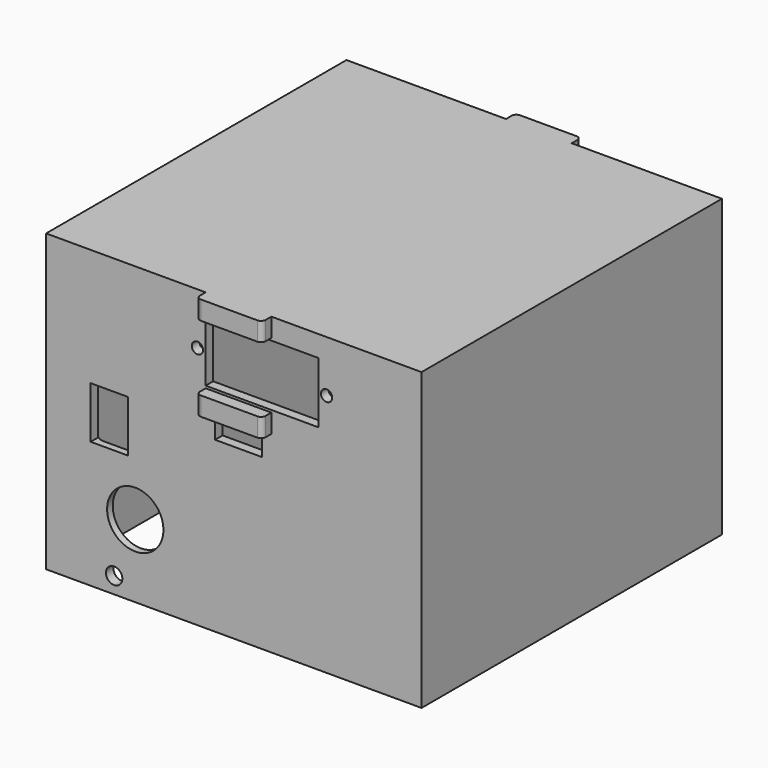
from build123d import *

# Parameters (mm, degrees)
BOX092_W               = 10
BOX092_H               = 94
BOX092_DEPTH           = 4
BOX089_W               = 14
BOX089_H               = 3
BOX089_DEPTH           = 4
BOX088_W               = 14
BOX088_H               = 3
BOX088_DEPTH           = 4
BOX090_W               = 14
BOX090_H               = 3
BOX090_DEPTH           = 4
BOX091_W               = 14
BOX091_H               = 3
BOX091_DEPTH           = 4
SKETCH021_R            = 1.2
SKETCH021_W            = 24
SKETCH021_H            = 13
PAD016_DEPTH           = 140
CYLINDER096_R          = 6
CYLINDER096_DEPTH      = 31
CYLINDER096_ROLL_ANGLE = 90
CYLINDER094_R          = 1.75
CYLINDER094_DEPTH      = 31
CYLINDER094_ROLL_ANGLE = 90
BOX086_W               = 17
BOX086_H               = 77
BOX086_DEPTH           = 49
FILLET018013053_R      = 2
CYLINDER097_R          = 4
CYLINDER097_DEPTH      = 31
CYLINDER097_ROLL_ANGLE = 90
CYLINDER095_R          = 1.75
CYLINDER095_DEPTH      = 31
CYLINDER095_ROLL_ANGLE = 90
BOX085_W               = 8
BOX085_H               = 24
BOX085_DEPTH           = 11
BOX084_W               = 76
BOX084_H               = 76
BOX084_DEPTH           = 66
FILLET018013052_R      = 3.5
BOX087_W               = 80
BOX087_H               = 80
BOX087_DEPTH           = 63
FILLET018013054_R      = 1


with BuildPart() as cubo031:
    # Box092 → Box092 (new body)
    with BuildSketch(Plane(origin=(13, -11, 104), x_dir=(1, 0, 0), z_dir=(0, 0, 1))):
        with Locations((5, 47)):
            Rectangle(BOX092_W, BOX092_H)
    extrude(amount=BOX092_DEPTH)


with BuildPart() as cubo028:
    # Box089 → Box089 (new body)
    with BuildSketch(Plane(origin=(11, 75.5, 127), x_dir=(1, 0, 0), z_dir=(0, 0, 1))):
        with Locations((7, 1.5)):
            Rectangle(BOX089_W, BOX089_H)
    extrude(amount=BOX089_DEPTH)


with BuildPart() as cubo027:
    # Box088 → Box088 (new body)
    with BuildSketch(Plane(origin=(11, 75.5, 109), x_dir=(1, 0, 0), z_dir=(0, 0, 1))):
        with Locations((7, 1.5)):
            Rectangle(BOX088_W, BOX088_H)
    extrude(amount=BOX088_DEPTH)


with BuildPart() as cubo029:
    # Box090 → Box090 (new body)
    with BuildSketch(Plane(origin=(11, -6.5, 109), x_dir=(1, 0, 0), z_dir=(0, 0, 1))):
        with Locations((7, 1.5)):
            Rectangle(BOX090_W, BOX090_H)
    extrude(amount=BOX090_DEPTH)


with BuildPart() as cubo030:
    # Box091 → Box091 (new body)
    with BuildSketch(Plane(origin=(11, -6.5, 127), x_dir=(1, 0, 0), z_dir=(0, 0, 1))):
        with Locations((7, 1.5)):
            Rectangle(BOX091_W, BOX091_H)
    extrude(amount=BOX091_DEPTH)


with BuildPart() as pad016:
    # Sketch021 → Pad016 (new body)
    with BuildSketch(Plane(origin=(-0.25, -35, 0), x_dir=(1, 0, 0), z_dir=(0, -1, 0))):
        with Locations((37, 120)):
            Circle(SKETCH021_R)
        with Locations((9.5, 120)):
            Circle(SKETCH021_R)
        with Locations((23.25, 120)):
            Rectangle(SKETCH021_W, SKETCH021_H)
    extrude(amount=-PAD016_DEPTH)


with BuildPart() as cylinder123:
    # Cylinder096 → Cylinder096 (new body)
    with BuildSketch(Plane.XY):
        Circle(CYLINDER096_R)
    extrude(amount=CYLINDER096_DEPTH)


with BuildPart() as cylinder123_1:
    # Cylinder096 roll: moved
    add(cylinder123.part.rotate(Axis((0, 0, 0), (1, 0, 0)), CYLINDER096_ROLL_ANGLE))


with BuildPart() as cylinder123_2:
    # Cylinder096 placement: moved
    add(cylinder123_1.part.moved(Location((-4, 11, 83.5))))


with BuildPart() as cylinder121:
    # Cylinder094 → Cylinder094 (new body)
    with BuildSketch(Plane.XY):
        Circle(CYLINDER094_R)
    extrude(amount=CYLINDER094_DEPTH)


with BuildPart() as cylinder121_1:
    # Cylinder094 roll: moved
    add(cylinder121.part.rotate(Axis((0, 0, 0), (1, 0, 0)), CYLINDER094_ROLL_ANGLE))


with BuildPart() as cylinder121_2:
    # Cylinder094 placement: moved
    add(cylinder121_1.part.moved(Location((-8.5, 11, 71.5))))


with BuildPart() as fillet018013053:
    # Box086 → Box086 (new body)
    with BuildSketch(Plane(origin=(-14, -2.5, 75), x_dir=(1, 0, 0), z_dir=(0, 0, 1))):
        with Locations((8.5, 38.5)):
            Rectangle(BOX086_W, BOX086_H)
    extrude(amount=BOX086_DEPTH)

    # Fillet018013053
    fillet018013053_edges = [fillet018013053.edges().sort_by_distance(p)[0] for p in [
        (-14, -2.5, 99.5),
        (-14, 36, 124),
        (-14, 74.5, 99.5),
        (-14, 36, 75),
        (3, -2.5, 99.5),
        (3, 36, 124),
        (3, 74.5, 99.5),
        (3, 36, 75),
        (-5.5, -2.5, 75),
        (-5.5, -2.5, 124),
        (-5.5, 74.5, 75),
        (-5.5, 74.5, 124),
    ]]
    fillet(fillet018013053_edges, radius=FILLET018013053_R)


with BuildPart() as cylinder124:
    # Cylinder097 → Cylinder097 (new body)
    with BuildSketch(Plane.XY):
        Circle(CYLINDER097_R)
    extrude(amount=CYLINDER097_DEPTH)


with BuildPart() as cylinder124_1:
    # Cylinder097 roll: moved
    add(cylinder124.part.rotate(Axis((0, 0, 0), (1, 0, 0)), CYLINDER097_ROLL_ANGLE))


with BuildPart() as cylinder124_2:
    # Cylinder097 placement: moved
    add(cylinder124_1.part.moved(Location((-7, 80, 89.6))))


with BuildPart() as cylinder122:
    # Cylinder095 → Cylinder095 (new body)
    with BuildSketch(Plane.XY):
        Circle(CYLINDER095_R)
    extrude(amount=CYLINDER095_DEPTH)


with BuildPart() as cylinder122_1:
    # Cylinder095 roll: moved
    add(cylinder122.part.rotate(Axis((0, 0, 0), (1, 0, 0)), CYLINDER095_ROLL_ANGLE))


with BuildPart() as cylinder122_2:
    # Cylinder095 placement: moved
    add(cylinder122_1.part.moved(Location((-8.5, 80, 71.5))))


with BuildPart() as fusion067:
    # Box085 → Box085 (new body)
    with BuildSketch(Plane(origin=(-13.5, -13, 95), x_dir=(1, 0, 0), z_dir=(0, 0, 1))):
        with Locations((4, 12)):
            Rectangle(BOX085_W, BOX085_H)
    extrude(amount=BOX085_DEPTH)

    # Fusion067: union Cylinder123, Cylinder121, Fillet018013053, Cylinder124, Cylinder122
    add(cylinder123_2.part)
    add(cylinder121_2.part)
    add(fillet018013053.part)
    add(cylinder124_2.part)
    add(cylinder122_2.part)


with BuildPart() as fillet018013052:
    # Box084 → Box084 (new body)
    with BuildSketch(Plane(origin=(-21, -2, 87), x_dir=(1, 0, 0), z_dir=(0, 0, 1))):
        with Locations((38, 38)):
            Rectangle(BOX084_W, BOX084_H)
    extrude(amount=BOX084_DEPTH)

    # Fillet018013052
    fillet018013052_edges = [fillet018013052.edges().sort_by_distance(p)[0] for p in [
        (-21, -2, 120),
        (-21, 36, 153),
        (-21, 74, 120),
        (55, -2, 120),
        (55, 36, 153),
        (55, 74, 120),
        (17, -2, 153),
        (17, 74, 153),
    ]]
    fillet(fillet018013052_edges, radius=FILLET018013052_R)


with BuildPart() as fillet018013052_1:
    # Fillet018013052 placement: moved
    add(fillet018013052.part.moved(Location((0, 0, -24))))


with BuildPart() as obj1:
    # Box087 → Box087 (new body)
    with BuildSketch(Plane(origin=(-23, -4, 68), x_dir=(1, 0, 0), z_dir=(0, 0, 1))):
        with Locations((40, 40)):
            Rectangle(BOX087_W, BOX087_H)
    extrude(amount=BOX087_DEPTH)

    # Cut124: cut Fillet018013052
    add(fillet018013052_1.part, mode=Mode.SUBTRACT)

    # Cut125: cut Fusion067
    add(fusion067.part, mode=Mode.SUBTRACT)

    # Cut126: cut Pad016
    add(pad016.part, mode=Mode.SUBTRACT)

    # Fusion068: union Cubo028, Cubo027, Cubo029, Cubo030
    add(cubo028.part)
    add(cubo027.part)
    add(cubo029.part)
    add(cubo030.part)

    # Fillet018013054
    fillet018013054_edges = [obj1.edges().sort_by_distance(p)[0] for p in [
        (25, -6.5, 129),
        (11, -6.5, 129),
        (11, -6.5, 111),
        (25, -6.5, 111),
        (25, 78.5, 129),
        (11, 78.5, 129),
        (25, 78.5, 111),
        (11, 78.5, 111),
    ]]
    fillet(fillet018013054_edges, radius=FILLET018013054_R)

    # Cut127: cut Cubo031
    add(cubo031.part, mode=Mode.SUBTRACT)


solid = obj1.part
